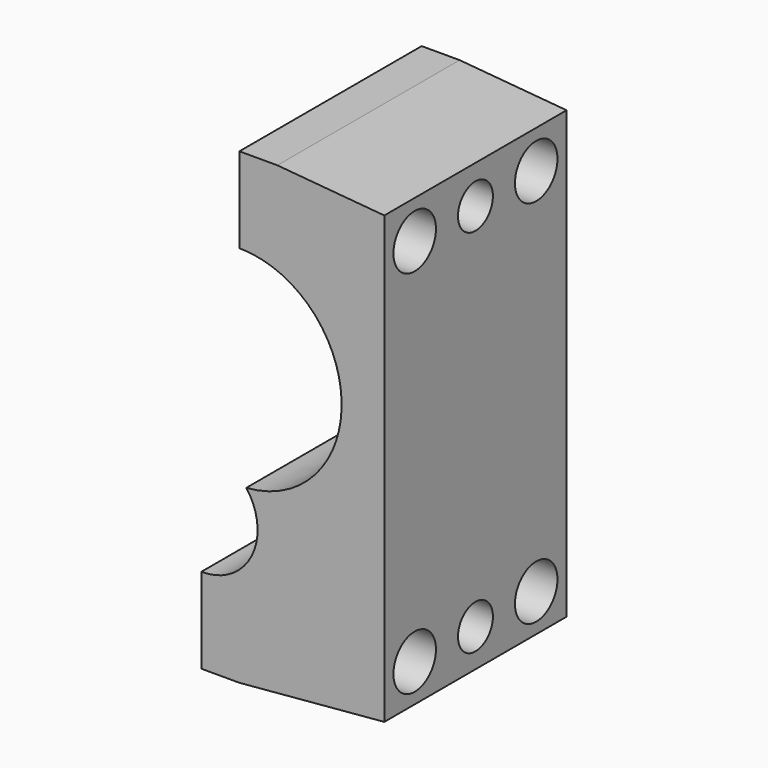
from build123d import *

# Parameters (mm, degrees)
CYLINDER014_R     = 2.3
CYLINDER014_DEPTH = 20
CYLINDER015_R     = 2.3
CYLINDER015_DEPTH = 20
CYLINDER004_R     = 2.8
CYLINDER004_DEPTH = 60
CYLINDER005_R     = 2.8
CYLINDER005_DEPTH = 60
CYLINDER006_R     = 2.8
CYLINDER006_DEPTH = 60
CYLINDER007_R     = 2.8
CYLINDER007_DEPTH = 60
PAD003_DEPTH      = 24


with BuildPart() as obj1:
    # Cylinder014 → Cylinder014 (new body)
    with BuildSketch(Plane(origin=(41, -12, -3), x_dir=(0, 0, 1), z_dir=(-1, 0, 0))):
        Circle(CYLINDER014_R)
    extrude(amount=CYLINDER014_DEPTH)


with BuildPart() as obj2:
    # Cylinder015 → Cylinder015 (new body)
    with BuildSketch(Plane(origin=(41, -12, 36), x_dir=(0, 0, 1), z_dir=(-1, 0, 0))):
        Circle(CYLINDER015_R)
    extrude(amount=CYLINDER015_DEPTH)


with BuildPart() as o003:
    # Cylinder004 → Cylinder004 (new body)
    with BuildSketch(Plane(origin=(41, -4, 36), x_dir=(0, 0, 1), z_dir=(-1, 0, 0))):
        Circle(CYLINDER004_R)
    extrude(amount=CYLINDER004_DEPTH)


with BuildPart() as u003:
    # Cylinder005 → Cylinder005 (new body)
    with BuildSketch(Plane(origin=(41, -20, -3), x_dir=(0, 0, 1), z_dir=(-1, 0, 0))):
        Circle(CYLINDER005_R)
    extrude(amount=CYLINDER005_DEPTH)


with BuildPart() as u004:
    # Cylinder006 → Cylinder006 (new body)
    with BuildSketch(Plane(origin=(41, -4, -3), x_dir=(0, 0, 1), z_dir=(-1, 0, 0))):
        Circle(CYLINDER006_R)
    extrude(amount=CYLINDER006_DEPTH)


with BuildPart() as o004:
    # Cylinder007 → Cylinder007 (new body)
    with BuildSketch(Plane(origin=(41, -20, 36), x_dir=(0, 0, 1), z_dir=(-1, 0, 0))):
        Circle(CYLINDER007_R)
    extrude(amount=CYLINDER007_DEPTH)


with BuildPart() as cut020:
    # Sketch003 → Pad003 (new body)
    with BuildSketch(Plane.XZ):
        with BuildLine():
            ThreePointArc((6, 0.701169), (11.288851, 3.875794), (10.727222, 10.018656))
            add(Edge.make_bspline(
                [(10.727222, 10.018656), (21.113006, 10.736894), (20.761279, 21.365217), (20.409553, 31.993539), (10, 31.993539)],
                knots=[3.209183, 3.209183, 3.209183, 4.746184, 4.746184, 6.283185, 6.283185, 6.283185], degree=2, weights=[1, 0.718954, 1, 0.718954, 1]))
            Line((10, 31.993539), (10, 40.993539))
            Line((10, 40.993539), (14, 40.993539))
            Line((14, 40.993539), (25.267428, 40.007767))
            Line((25.267428, 40.007767), (25.267428, -6.963104))
            Line((25.267428, -6.963104), (10, -8.298831))
            Line((10, -8.298831), (6, -8.298831))
            Line((6, -8.298831), (6, 0.701169))
        make_face()
    extrude(amount=PAD003_DEPTH)

    # Cut015: cut O004
    add(o004.part, mode=Mode.SUBTRACT)

    # Cut016: cut U004
    add(u004.part, mode=Mode.SUBTRACT)

    # Cut017: cut U003
    add(u003.part, mode=Mode.SUBTRACT)

    # Cut018: cut O003
    add(o003.part, mode=Mode.SUBTRACT)

    # Cut019: cut obj2
    add(obj2.part, mode=Mode.SUBTRACT)

    # Cut020: cut obj1
    add(obj1.part, mode=Mode.SUBTRACT)


solid = cut020.part
